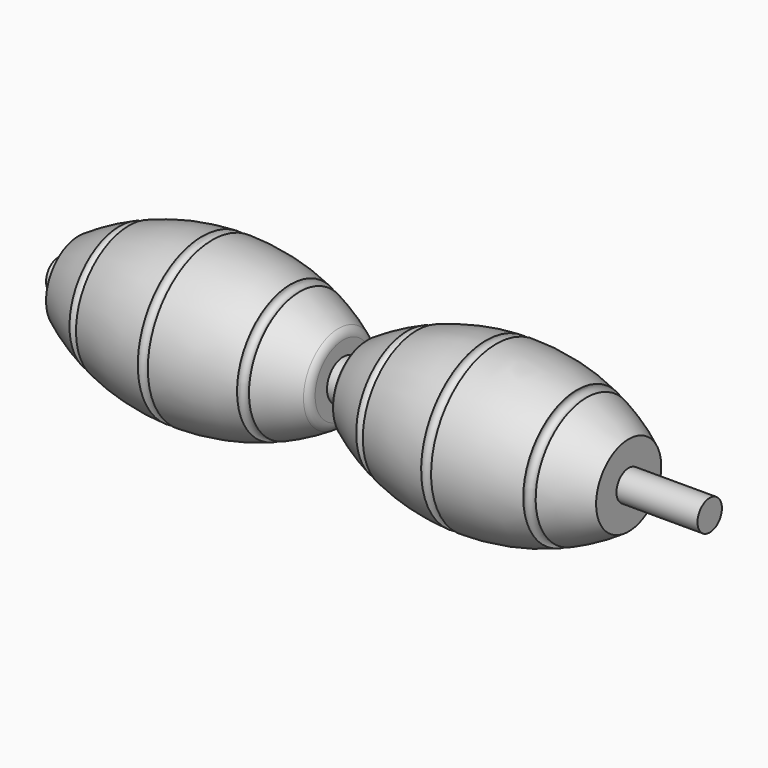
from build123d import *

# Parameters (mm, degrees)
F0_R     = 9.525
F1_DEPTH = 406.4
F4_R     = 3.175


with BuildPart() as f1:
    # F0 (on Right) → F1 (new body)
    with BuildSketch(Plane.YZ):
        Circle(F0_R)
    extrude(amount=F1_DEPTH)

    # F2 (on Front) → F3 (revolve)
    with BuildSketch(Plane.XZ):
        with BuildLine():
            Line((12.7, 25.4), (12.7, 12.7))
            Line((12.7, 12.7), (12.7, 0))
            Line((12.7, 0), (355.854, 0))
            Line((355.854, 0), (355.854, 12.7))
            Line((355.854, 12.7), (355.854, 25.4))
            ThreePointArc((355.854, 25.4), (275.0469154689, 50.7896561436), (193.6599322034, 27.3252468301))
            ThreePointArc((193.6599322034, 27.3252468301), (192.5994323058, 26.4660131324), (191.7470482483, 25.4))
            ThreePointArc((191.7470482483, 25.4), (191.0073146865, 23.7660199584), (190.754, 21.9903712915))
            Line((190.754, 21.9903712915), (190.754, 12.7))
            Line((190.754, 12.7), (177.8, 12.7))
            Line((177.8, 12.7), (177.8, 21.9456832449))
            ThreePointArc((177.8, 21.9456832449), (177.009836999, 25.0133717142), (174.8359960491, 27.3176038285))
            ThreePointArc((174.8359960491, 27.3176038285), (93.4848849992, 50.2963909378), (12.7, 25.4))
        make_face()
    revolve(axis=Axis((0, 0, 0), (-1, 0, 0)))

    # F4 (on Front) → F5 (revolve, cut)
    with BuildSketch(Plane.XZ):
        with Locations((92.9501950741, 50.3867454827)):
            Circle(F4_R)
        with Locations((41.1829613149, 39.9012640119)):
            Circle(F4_R)
        with Locations((148.1043696404, 41.4794385433)):
            Circle(F4_R)
        with Locations((270.0664103031, 50.5127310753)):
            Circle(F4_R)
        with Locations((220.8540737629, 40.8193916082)):
            Circle(F4_R)
        with Locations((326.4865875244, 40.5708476901)):
            Circle(F4_R)
    revolve(axis=Axis((0, 0, 0), (-1, 0, 0)), mode=Mode.SUBTRACT)


solid = f1.part
